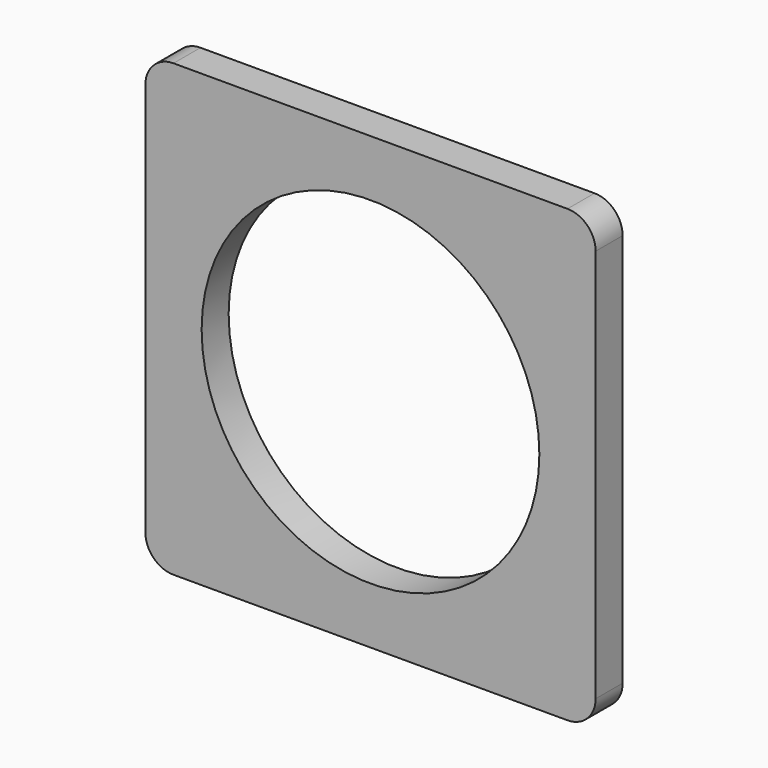
from build123d import *

# Parameters (mm, degrees)
F0_R     = 30
F1_DEPTH = 6


with BuildPart() as f1:
    # F0 (on Front) → F1 (new body)
    with BuildSketch(Plane.XZ):
        with BuildLine():
            Line((-75, 0), (-5, 0))
            ThreePointArc((-5, 0), (-1.464466, 1.464466), (0, 5))
            Line((0, 5), (0, 75))
            ThreePointArc((0, 75), (-1.464466, 78.535534), (-5, 80))
            Line((-5, 80), (-75, 80))
            ThreePointArc((-75, 80), (-78.535534, 78.535534), (-80, 75))
            Line((-80, 75), (-80, 5))
            ThreePointArc((-80, 5), (-78.535534, 1.464466), (-75, 0))
        make_face()
        with Locations((-40, 40)):
            Circle(F0_R, mode=Mode.SUBTRACT)
    extrude(amount=F1_DEPTH)


solid = f1.part
